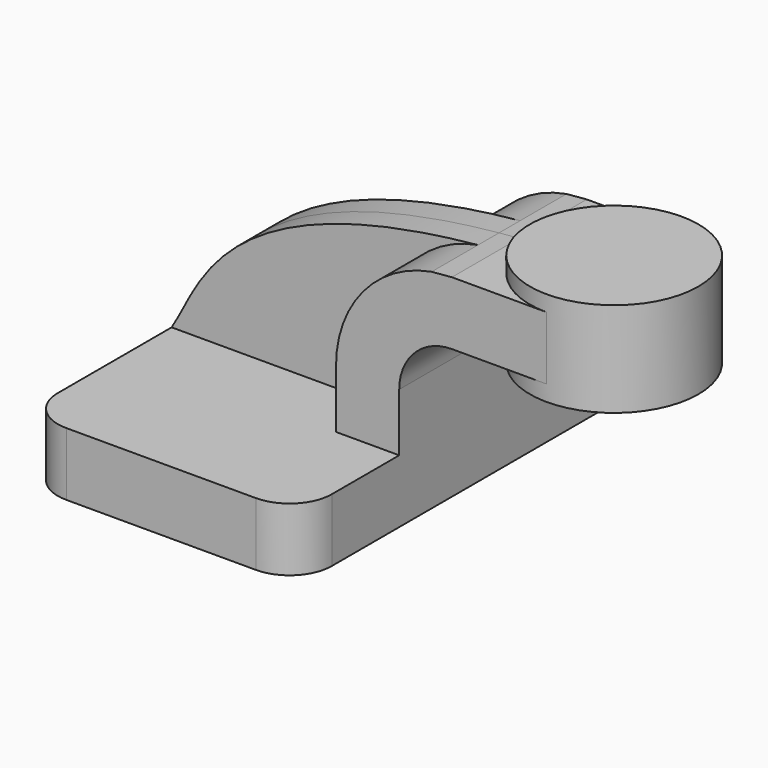
from build123d import *

# Parameters (mm, degrees)
F1_DEPTH = 63.5
F2_DEPTH = 25.4
F0_W     = 25.4
F0_H     = 19.05
F3_DEPTH = 25.4
F4_DEPTH = 7.9375
F5_DEPTH = 25.4
F7_R     = 12.7


with BuildPart() as f1:
    # F0 (on Front) → F1 (new body, symmetric)
    with BuildSketch(Plane.XZ):
        Polygon((22.225, 9.525), (-41.275, 9.525), (-41.275, -9.525), (41.275, -9.525), (41.275, 9.525), align=None)
    extrude(amount=F1_DEPTH, both=True)

    # F0 (on Front) → F2 (join, symmetric)
    with BuildSketch(Plane.XZ):
        with BuildLine():
            Line((22.225, 27.0002), (22.225, 9.525))
            Line((22.225, 9.525), (41.275, 9.525))
            Line((41.275, 9.525), (41.275, 27.0002))
            ThreePointArc((41.275, 27.0002), (45.92468, 38.22552), (57.15, 42.8752))
            Line((57.15, 42.8752), (60.325, 42.8752))
            Line((60.325, 42.8752), (60.325, 61.9252))
            Line((60.325, 61.9252), (57.15, 61.9252))
            add(Edge.make_bspline(
                [(51.038245, 61.386274), (53.028106, 61.581124), (55.064944, 61.76099), (57.15, 61.9252)],
                knots=[108.753327, 108.753327, 108.753327, 108.753327, 111.504536, 111.504536, 111.504536, 111.504536], degree=3))
            ThreePointArc((51.038245, 61.386274), (30.380534, 49.431234), (22.225, 27.0002))
        make_face()
    extrude(amount=F2_DEPTH, both=True)

    # F0 (on Front) → F3 (join, symmetric)
    with BuildSketch(Plane.XZ):
        with Locations((73.025, 52.4002)):
            Rectangle(F0_W, F0_H)
    extrude(amount=F3_DEPTH, both=True)

    # F0 (on Front) → F4 (join, symmetric)
    with BuildSketch(Plane.XZ):
        with BuildLine():
            add(Edge.make_bspline(
                [(-41.275, 9.525), (-32.871462, 22.567717), (-27.619523, 53.683983), (51.038245, 61.386274)],
                knots=[0, 0, 0, 0, 108.753327, 108.753327, 108.753327, 108.753327], degree=3))
            Line((-41.275, 9.525), (22.225, 9.525))
            Line((22.225, 9.525), (22.225, 27.0002))
            ThreePointArc((22.225, 27.0002), (30.380534, 49.431234), (51.038245, 61.386274))
        make_face()
    extrude(amount=F4_DEPTH, both=True)

    # F0 (on Front) → F5 (join, symmetric)
    with BuildSketch(Plane.XZ):
        with Locations((73.025, 52.4002)):
            Rectangle(F0_W, F0_H)
    extrude(amount=F5_DEPTH, both=True)

    # F0 (on Front) → F6 (revolve)
    with BuildSketch(Plane.XZ):
        Polygon((85.725, 66.6877), (85.725, 61.9252), (85.725, 42.8752), (85.725, 38.1127), (111.125, 38.1127), (111.125, 66.6877), align=None)
    revolve(axis=Axis((85.725, 0, 52.4002), (0, 0, -1)))

    # F7
    f7_edges = [f1.edges().sort_by_distance(p)[0] for p in [
        (-41.275, -63.5, 0),
        (41.275, -63.5, 0),
        (41.275, 63.5, 0),
        (-41.275, 63.5, 0),
    ]]
    fillet(f7_edges, radius=F7_R)


solid = f1.part
